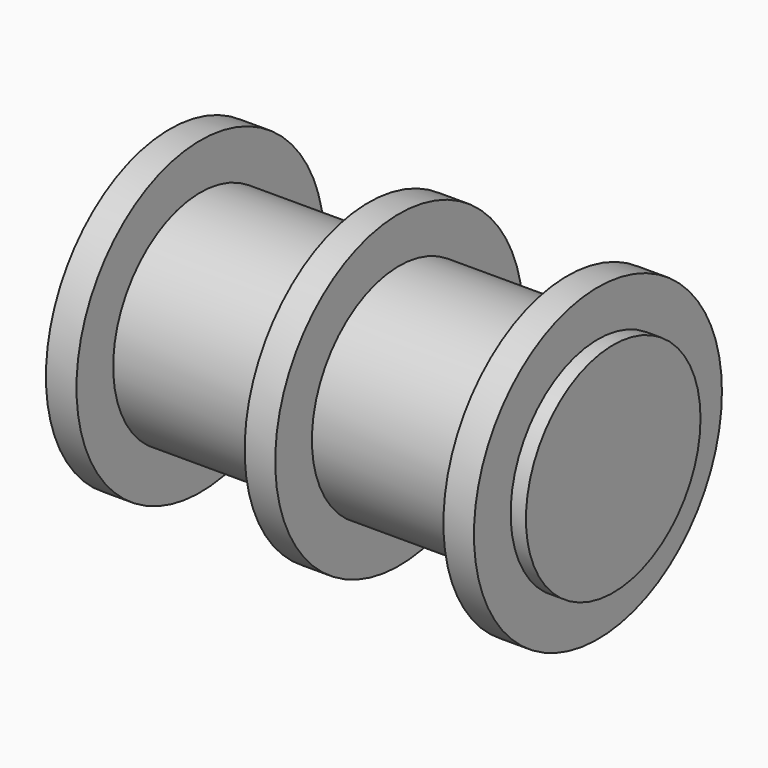
from build123d import *


with BuildPart() as f1:
    # F0 (on Top) → F1 (revolve)
    with BuildSketch(Plane.XY):
        Polygon((-150, 71.374), (-150, 0), (150, 0), (150, 71.374), (140, 71.374), (140, 101.374), (120, 101.374), (120, 71.374), (10, 71.374), (10, 101.374), (-10, 101.374), (-10, 71.374), (-120, 71.374), (-120, 101.374), (-140, 101.374), (-140, 71.374), align=None)
    revolve(axis=Axis((0, 0, 0), (-1, 0, 0)))


solid = f1.part
